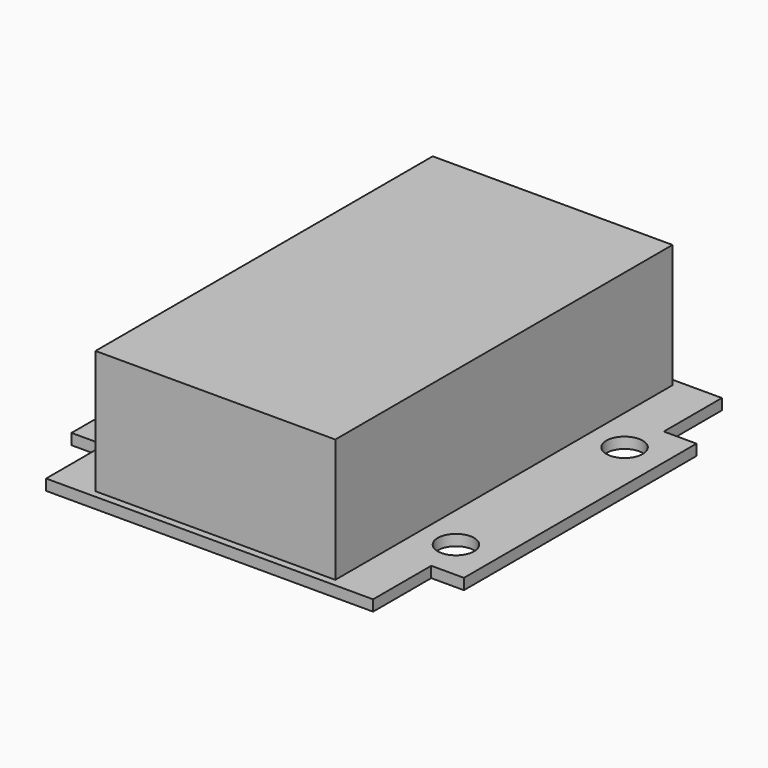
from build123d import *

# Parameters (mm, degrees)
F0_W     = 4.5
F0_H     = 40
F0_W_2   = 45
F0_H_2   = 10
F1_DEPTH = 1.5
F2_R     = 2.5
F3_DEPTH = 25
F4_W     = 33
F4_H     = 58
F5_DEPTH = 17


with BuildPart() as f1:
    # F0 (on Top) → F1 (new body)
    with BuildSketch(Plane.XY):
        with Locations((24.75, 0)):
            Rectangle(F0_W, F0_H)
        Rectangle(F0_W_2, F0_H)
        with Locations((0, 25)):
            Rectangle(F0_W_2, F0_H_2)
        with Locations((-24.75, 0)):
            Rectangle(F0_W, F0_H)
        with Locations((0, -25)):
            Rectangle(F0_W_2, F0_H_2)
    extrude(amount=F1_DEPTH)

    # F2 (on face) → F3 (cut)
    with BuildSketch(Plane.XY.offset(1.5)):
        with Locations((-21.5, 14.5)):
            Circle(F2_R)
        with Locations((21.5, 14.5)):
            Circle(F2_R)
        with Locations((21.5, -14.5)):
            Circle(F2_R)
        with Locations((-21.5, -14.5)):
            Circle(F2_R)
    extrude(amount=-F3_DEPTH, mode=Mode.SUBTRACT)

    # F4 (on face) → F5 (join)
    with BuildSketch(Plane.XY.offset(1.5)):
        Rectangle(F4_W, F4_H)
    extrude(amount=F5_DEPTH)


solid = f1.part
